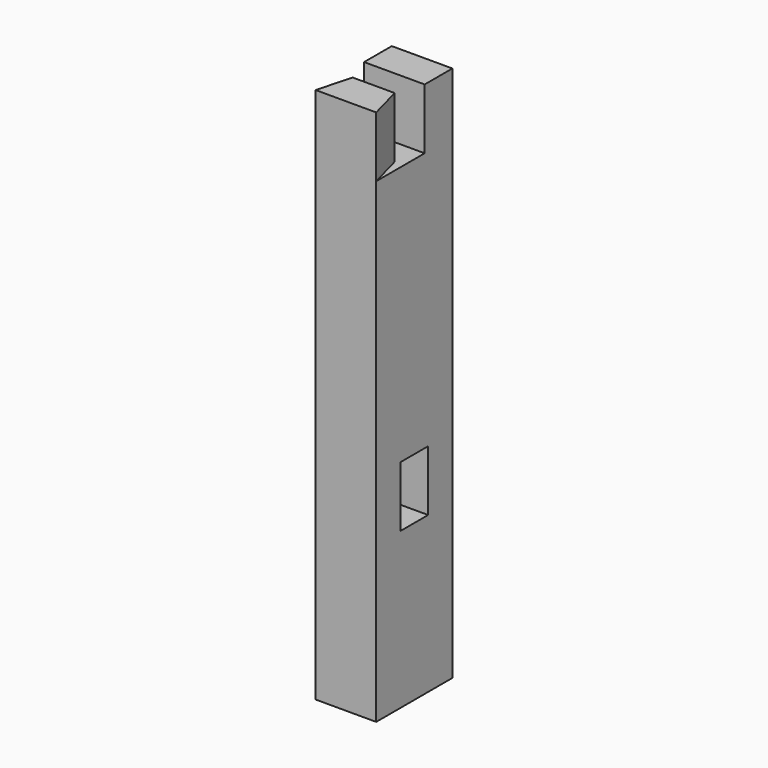
from build123d import *

# Parameters (mm, degrees)
F0_W     = 88.9
F0_H     = 139.7
F1_DEPTH = 787.4
F3_DEPTH = 88.9
F4_W     = 50.8
F4_H     = 88.9
F5_DEPTH = 88.9


with BuildPart() as f1:
    # F0 (on Top) → F1 (new body)
    with BuildSketch(Plane.XY):
        with Locations((44.45, 69.85)):
            Rectangle(F0_W, F0_H)
    extrude(amount=F1_DEPTH)

    # F2 (on face) → F3 (cut)
    with BuildSketch(Plane.XY.offset(787.4)):
        Polygon((0, 88.9), (0, 0), (13.611819, 50.8), (75.288181, 50.8), (88.9, 0), (88.9, 88.9), align=None)
    extrude(amount=-F3_DEPTH, mode=Mode.SUBTRACT)

    # F4 (on face) → F5 (cut, through all)
    with BuildSketch(Plane(origin=(0, 0, 0), x_dir=(0, -1, 0), z_dir=(-1, 0, 0))):
        with Locations((-69.85, 273.05)):
            Rectangle(F4_W, F4_H)
    extrude(amount=-F5_DEPTH, mode=Mode.SUBTRACT)


solid = f1.part
